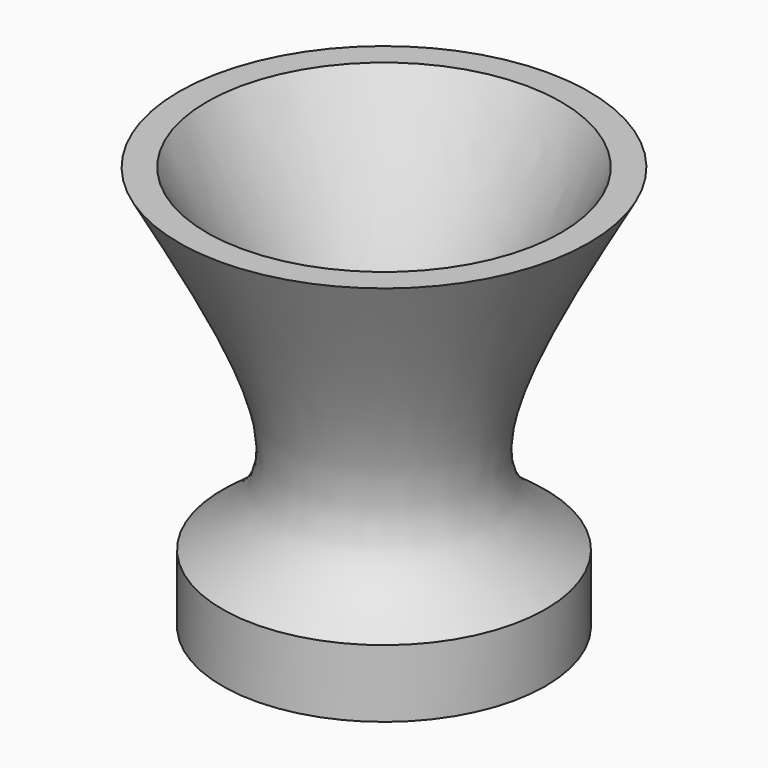
from build123d import *

# Parameters (mm, degrees)
F2_T = -3


with BuildPart() as f1:
    # F0 (on Front) → F1 (revolve)
    with BuildSketch(Plane.XZ):
        with BuildLine():
            Line((0, 50), (0, 0))
            Line((0, 0), (20, 0))
            Line((20, 0), (20, 8.3628538996))
            add(Edge.make_bspline(
                [(20, 8.3628538996), (16.5416258814, 10.8434081507), (7.1738654735, 17.5625302315), (18.3207054688, 37.4527918786), (25.3523737192, 50)],
                knots=[0, 0, 0, 0, 0.3691783274, 1, 1, 1, 1], degree=3))
            Line((25.3523737192, 50), (0, 50))
        make_face()
    revolve(axis=Axis((0, 0, 25), (0, 0, 1)))

    # F2
    f2_openings = [f1.faces().sort_by_distance(p)[0] for p in [
        (0, 0, 50),
    ]]
    offset(amount=F2_T, openings=f2_openings)


solid = f1.part
